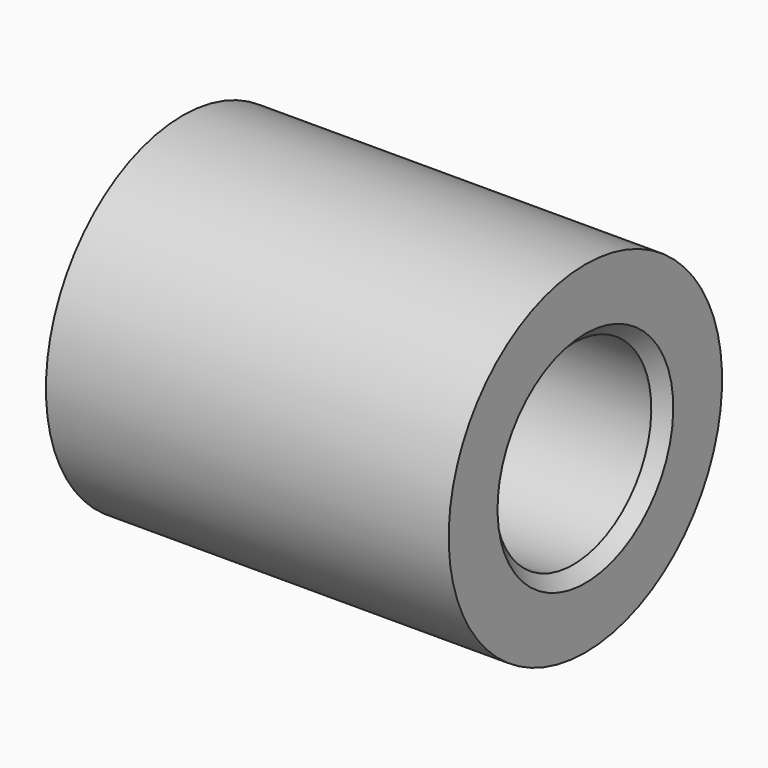
from build123d import *

# Parameters (mm, degrees)
F0_W     = 16.5
F0_H     = 3
F2_SIZE2 = 0.5
F2_SIZE  = 0.5


with BuildPart() as f1:
    # F0 (on Front) → F1 (revolve)
    with BuildSketch(Plane.XZ):
        with Locations((0, 5.5)):
            Rectangle(F0_W, F0_H)
    revolve(axis=Axis((-12.492067, 0, 0), (-1, 0, 0)))

    # F2
    f2_edges = [f1.edges().sort_by_distance(p)[0] for p in [
        (-8.25, 0, -4),
        (8.25, 0, -4),
    ]]
    chamfer(f2_edges, length=F2_SIZE, length2=F2_SIZE2)


solid = f1.part
